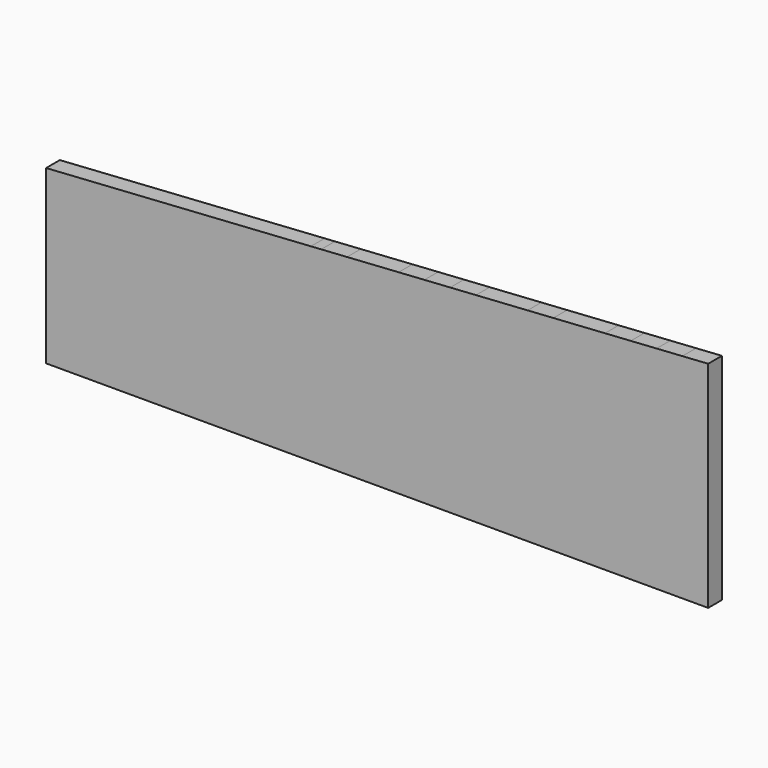
from build123d import *

# Parameters (mm, degrees)
F0_W     = 914.4
F0_H     = 6705.6
F1_DEPTH = 609.6


with BuildPart() as f1:
    # F0 (on Front) → F1 (new body)
    with BuildSketch(Plane.XZ):
        Polygon((0, 6096), (0, 0), (9753.6, 0), (9753.6, 6705.6), (9387.84, 6705.6), align=None)
        with Locations((10210.8, 3352.8)):
            Rectangle(F0_W, F0_H)
        with Locations((11125.2, 3352.8)):
            Rectangle(F0_W, F0_H)
        Polygon((9753.6, 6729.350649), (9753.6, 6705.6), (10668, 6705.6), (10668, 6788.727273), align=None)
        Polygon((9387.84, 6705.6), (9753.6, 6705.6), (9753.6, 6729.350649), align=None)
        with Locations((12039.6, 3352.8)):
            Rectangle(F0_W, F0_H)
        Polygon((10668, 6788.727273), (10668, 6705.6), (11582.4, 6705.6), (11582.4, 6848.103896), align=None)
        with Locations((12954, 3352.8)):
            Rectangle(F0_W, F0_H)
        Polygon((11582.4, 6848.103896), (11582.4, 6705.6), (12496.8, 6705.6), (12496.8, 6907.480519), align=None)
        with Locations((13868.4, 3352.8)):
            Rectangle(F0_W, F0_H)
        Polygon((12496.8, 6907.480519), (12496.8, 6705.6), (13411.2, 6705.6), (13411.2, 6966.857143), align=None)
        with Locations((14782.8, 3352.8)):
            Rectangle(F0_W, F0_H)
        Polygon((13411.2, 6966.857143), (13411.2, 6705.6), (14325.6, 6705.6), (14325.6, 7026.233766), align=None)
        with Locations((15697.2, 3352.8)):
            Rectangle(F0_W, F0_H)
        Polygon((14325.6, 7026.233766), (14325.6, 6705.6), (15240, 6705.6), (15240, 7085.61039), align=None)
        with Locations((16611.6, 3352.8)):
            Rectangle(F0_W, F0_H)
        Polygon((15240, 7085.61039), (15240, 6705.6), (16154.4, 6705.6), (16154.4, 7144.987013), align=None)
        with Locations((17526, 3352.8)):
            Rectangle(F0_W, F0_H)
        Polygon((16154.4, 7144.987013), (16154.4, 6705.6), (17068.8, 6705.6), (17068.8, 7204.363636), align=None)
        with Locations((18440.4, 3352.8)):
            Rectangle(F0_W, F0_H)
        Polygon((17068.8, 7204.363636), (17068.8, 6705.6), (17983.2, 6705.6), (17983.2, 7263.74026), align=None)
        with Locations((19354.8, 3352.8)):
            Rectangle(F0_W, F0_H)
        Polygon((17983.2, 7263.74026), (17983.2, 6705.6), (18897.6, 6705.6), (18897.6, 7323.116883), align=None)
        with Locations((20269.2, 3352.8)):
            Rectangle(F0_W, F0_H)
        Polygon((18897.6, 7323.116883), (18897.6, 6705.6), (19812, 6705.6), (19812, 7382.493506), align=None)
        with Locations((21183.6, 3352.8)):
            Rectangle(F0_W, F0_H)
        Polygon((19812, 7382.493506), (19812, 6705.6), (20726.4, 6705.6), (20726.4, 7441.87013), align=None)
        with Locations((22098, 3352.8)):
            Rectangle(F0_W, F0_H)
        Polygon((20726.4, 7441.87013), (20726.4, 6705.6), (21640.8, 6705.6), (21640.8, 7501.246753), align=None)
        with Locations((23012.4, 3352.8)):
            Rectangle(F0_W, F0_H)
        Polygon((21640.8, 7501.246753), (21640.8, 6705.6), (22555.2, 6705.6), (22555.2, 7560.623377), align=None)
        Polygon((22555.2, 7560.623377), (22555.2, 6705.6), (23469.6, 6705.6), (23469.6, 7620), align=None)
    extrude(amount=F1_DEPTH)


solid = f1.part
